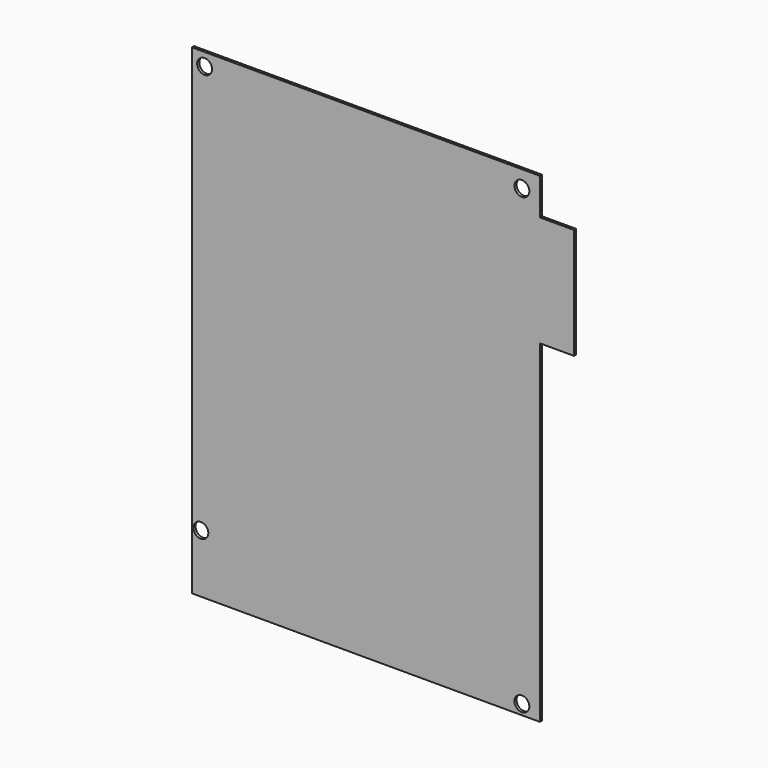
from build123d import *

# Parameters (mm, degrees)
F0_R     = 1.4
F0_W     = 6.426
F0_H     = 20.883
F1_DEPTH = 0.5


with BuildPart() as f1:
    # F0 (on Front) → F1 (new body)
    with BuildSketch(Plane.XZ):
        Polygon((-32.8, -45.3), (32.8, -45.3), (32.8, 17.52029), (32.8, 38.40329), (32.8, 45.3), (-32.8, 45.3), align=None)
        with Locations((-31.1, -34.3)):
            Circle(F0_R, mode=Mode.SUBTRACT)
        with Locations((29.4, -43.4)):
            Circle(F0_R, mode=Mode.SUBTRACT)
        with Locations((-30.4, 42.9)):
            Circle(F0_R, mode=Mode.SUBTRACT)
        with Locations((29.4, 42.1)):
            Circle(F0_R, mode=Mode.SUBTRACT)
        with Locations((36.013, 27.96179)):
            Rectangle(F0_W, F0_H)
    extrude(amount=F1_DEPTH)


solid = f1.part
